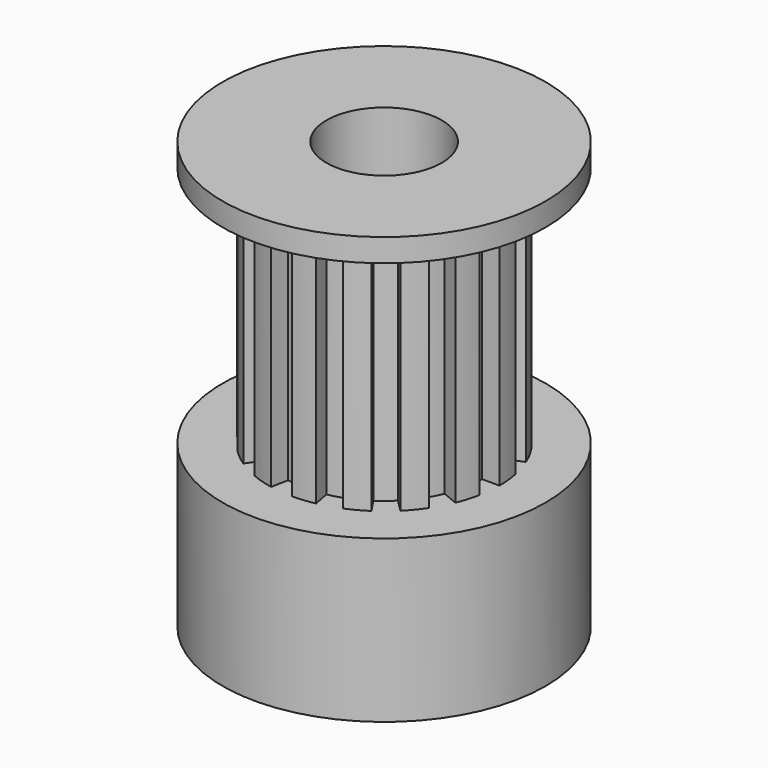
from build123d import *

# Parameters (mm, degrees)
F0_R     = 7
F1_DEPTH = 7
F3_DEPTH = 10.5
F4_R     = 7
F5_DEPTH = 1
F6_R     = 2.5
F7_DEPTH = 18.501
F8_R     = 1.5
F9_DEPTH = 25


with BuildPart() as f1:
    # F0 (on Top) → F1 (new body)
    with BuildSketch(Plane.XY):
        Circle(F0_R)
    extrude(amount=F1_DEPTH)

    # F2 (on face) → F3 (join)
    with BuildSketch(Plane.XY.offset(7)):
        with BuildLine():
            ThreePointArc((0.829134, 4.168337), (0.416573, 4.229535), (0, 4.25))
            Line((0, 4.25), (0, 5))
            ThreePointArc((0, 5), (-0.490086, 4.975924), (-0.975452, 4.903926))
            Line((-0.975452, 4.903926), (-0.829134, 4.168337))
            ThreePointArc((-0.829134, 4.168337), (-1.23371, 4.066996), (-1.626405, 3.926488))
            Line((-1.626405, 3.926488), (-1.913417, 4.619398))
            ThreePointArc((-1.913417, 4.619398), (-2.356984, 4.409606), (-2.777851, 4.157348))
            Line((-2.777851, 4.157348), (-2.361173, 3.533746))
            ThreePointArc((-2.361173, 3.533746), (-2.696171, 3.285294), (-3.005204, 3.005204))
            Line((-3.005204, 3.005204), (-3.535534, 3.535534))
            ThreePointArc((-3.535534, 3.535534), (-3.865052, 3.171966), (-4.157348, 2.777851))
            Line((-4.157348, 2.777851), (-3.533746, 2.361173))
            ThreePointArc((-3.533746, 2.361173), (-3.748165, 2.003436), (-3.926488, 1.626405))
            Line((-3.926488, 1.626405), (-4.619398, 1.913417))
            ThreePointArc((-4.619398, 1.913417), (-4.784702, 1.451423), (-4.903926, 0.975452))
            Line((-4.903926, 0.975452), (-4.168337, 0.829134))
            ThreePointArc((-4.168337, 0.829134), (-4.229535, 0.416573), (-4.25, 0))
            Line((-4.25, 0), (-5, 0))
            ThreePointArc((-5, 0), (-4.975924, -0.490086), (-4.903926, -0.975452))
            Line((-4.903926, -0.975452), (-4.168337, -0.829134))
            ThreePointArc((-4.168337, -0.829134), (-4.066996, -1.23371), (-3.926488, -1.626405))
            Line((-3.926488, -1.626405), (-4.619398, -1.913417))
            ThreePointArc((-4.619398, -1.913417), (-4.409606, -2.356984), (-4.157348, -2.777851))
            Line((-4.157348, -2.777851), (-3.533746, -2.361173))
            ThreePointArc((-3.533746, -2.361173), (-3.285294, -2.696171), (-3.005204, -3.005204))
            Line((-3.005204, -3.005204), (-3.535534, -3.535534))
            ThreePointArc((-3.535534, -3.535534), (-3.171966, -3.865052), (-2.777851, -4.157348))
            Line((-2.777851, -4.157348), (-2.361173, -3.533746))
            ThreePointArc((-2.361173, -3.533746), (-2.003436, -3.748165), (-1.626405, -3.926488))
            Line((-1.626405, -3.926488), (-1.913417, -4.619398))
            ThreePointArc((-1.913417, -4.619398), (-1.451423, -4.784702), (-0.975452, -4.903926))
            Line((-0.975452, -4.903926), (-0.829134, -4.168337))
            ThreePointArc((-0.829134, -4.168337), (-0.416573, -4.229535), (0, -4.25))
            Line((0, -4.25), (0, -5))
            ThreePointArc((0, -5), (0.490086, -4.975924), (0.975452, -4.903926))
            Line((0.975452, -4.903926), (0.829134, -4.168337))
            ThreePointArc((0.829134, -4.168337), (1.23371, -4.066996), (1.626405, -3.926488))
            Line((1.626405, -3.926488), (1.913417, -4.619398))
            ThreePointArc((1.913417, -4.619398), (2.356984, -4.409606), (2.777851, -4.157348))
            Line((2.777851, -4.157348), (2.361173, -3.533746))
            ThreePointArc((2.361173, -3.533746), (2.696171, -3.285294), (3.005204, -3.005204))
            Line((3.005204, -3.005204), (3.535534, -3.535534))
            ThreePointArc((3.535534, -3.535534), (3.865052, -3.171966), (4.157348, -2.777851))
            Line((4.157348, -2.777851), (3.533746, -2.361173))
            ThreePointArc((3.533746, -2.361173), (3.748165, -2.003436), (3.926488, -1.626405))
            Line((3.926488, -1.626405), (4.619398, -1.913417))
            ThreePointArc((4.619398, -1.913417), (4.784702, -1.451423), (4.903926, -0.975452))
            Line((4.903926, -0.975452), (4.168337, -0.829134))
            ThreePointArc((4.168337, -0.829134), (4.229535, -0.416573), (4.25, 0))
            Line((4.25, 0), (5, 0))
            ThreePointArc((5, 0), (4.975924, 0.490086), (4.903926, 0.975452))
            Line((4.903926, 0.975452), (4.168337, 0.829134))
            ThreePointArc((4.168337, 0.829134), (4.066996, 1.23371), (3.926488, 1.626405))
            Line((3.926488, 1.626405), (4.619398, 1.913417))
            ThreePointArc((4.619398, 1.913417), (4.409606, 2.356984), (4.157348, 2.777851))
            Line((4.157348, 2.777851), (3.533746, 2.361173))
            ThreePointArc((3.533746, 2.361173), (3.285294, 2.696171), (3.005204, 3.005204))
            Line((3.005204, 3.005204), (3.535534, 3.535534))
            ThreePointArc((3.535534, 3.535534), (3.171966, 3.865052), (2.777851, 4.157348))
            Line((2.777851, 4.157348), (2.361173, 3.533746))
            ThreePointArc((2.361173, 3.533746), (2.003436, 3.748165), (1.626405, 3.926488))
            Line((1.626405, 3.926488), (1.913417, 4.619398))
            ThreePointArc((1.913417, 4.619398), (1.451423, 4.784702), (0.975452, 4.903926))
            Line((0.975452, 4.903926), (0.829134, 4.168337))
        make_face()
    extrude(amount=F3_DEPTH)

    # F4 (on face) → F5 (join)
    with BuildSketch(Plane.XY.offset(17.5)):
        Circle(F4_R)
    extrude(amount=F5_DEPTH)

    # F6 (on face) → F7 (cut, through all)
    with BuildSketch(Plane(origin=(0, 0, 0), x_dir=(1, 0, 0), z_dir=(0, 0, -1))):
        Circle(F6_R)
    extrude(amount=-F7_DEPTH, mode=Mode.SUBTRACT)

    # F8 (on Right) → F9 (cut)
    with BuildSketch(Plane.YZ):
        with Locations((0, 3.5)):
            Circle(F8_R)
    extrude(amount=-F9_DEPTH, mode=Mode.SUBTRACT)


solid = f1.part
